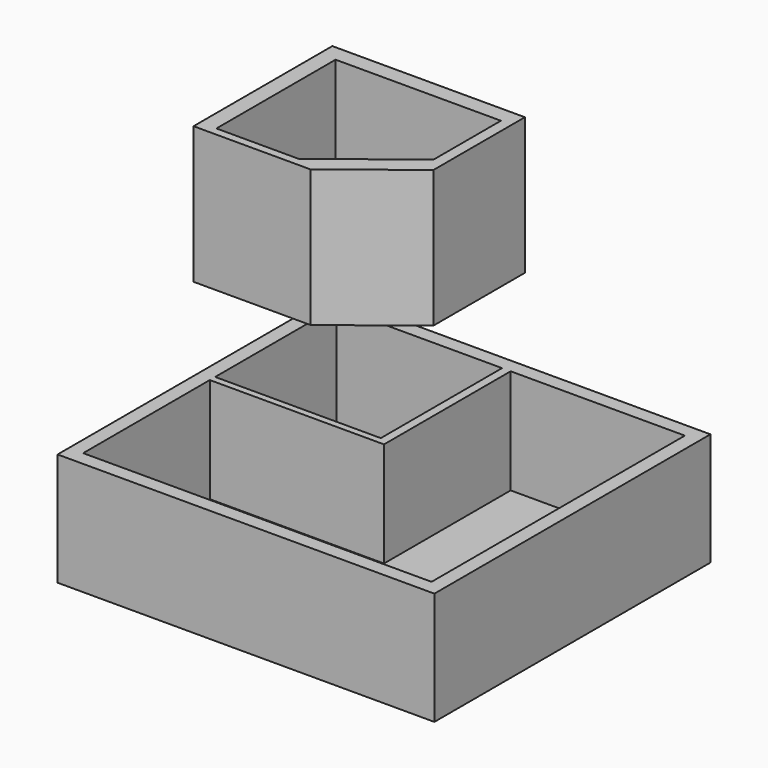
from build123d import *

# Parameters (mm, degrees)
F0_W     = 237.5977933407
F0_H     = 217.5752520561
F0_W_2   = 104.4297614135
F0_H_2   = 95.5936643295
F1_DEPTH = 66.12438
F2_W     = 237.5977933407
F2_H     = 217.5752520561
F3_DEPTH = 5.08
F6_DEPTH = 86.38789


with BuildPart() as f1:
    # F0 (on Top) → F1 (new body)
    with BuildSketch(Plane.XY):
        Rectangle(F0_W, F0_H)
        with Locations((-57.6206843834, 52.0274622831)):
            Rectangle(F0_W_2, F0_H_2, mode=Mode.SUBTRACT)
        Polygon((109.8355650902, -99.8242944479), (-109.8355650902, -99.8242944479), (-109.8355650902, 0), (0, 0), (0, 4.2306301184), (0, 99.8242944479), (109.8355650902, 99.8242944479), align=None, mode=Mode.SUBTRACT)
    extrude(amount=F1_DEPTH)

    # F2 (on face) → F3 (join)
    with BuildSketch(Plane(origin=(0, 0, 0), x_dir=(1, 0, 0), z_dir=(0, 0, -1))):
        Rectangle(F2_W, F2_H)
    extrude(amount=F3_DEPTH)


with BuildPart() as f6:
    # F5 (on offset) → F6 (new body)
    with BuildSketch(Plane.XY.offset(116.92438)):
        Polygon((0.8591034566, 109.9652573466), (-120.560862124, 109.9652573466), (-120.560862124, 0.5727356765), (-46.7055755058, 0.5727356765), (0.8591034566, 37.9882634563), align=None)
        Polygon((-110.2516278625, 5.7273572311), (-110.2516278625, 99.6560156345), (-6.0137277469, 99.6560156345), (-6.0137277469, 46.725384891), (-58.1326778047, 5.7273572311), align=None, mode=Mode.SUBTRACT)
    extrude(amount=F6_DEPTH)


solid = Compound([f1.part, f6.part])
